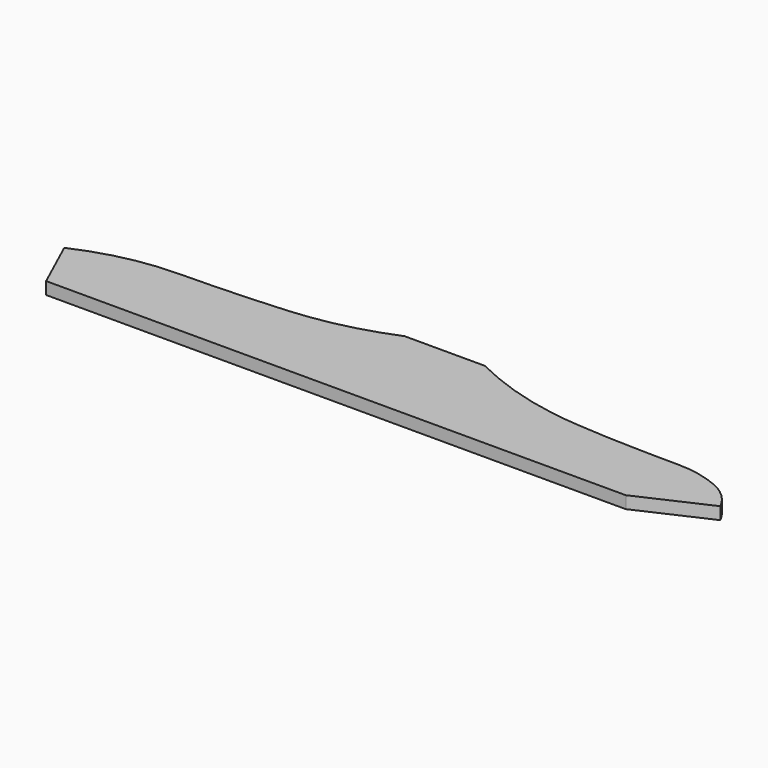
from build123d import *

# Parameters (mm, degrees)
F1_DEPTH = 15.875


with BuildPart() as f1:
    # F0 (on Top) → F1 (new body)
    with BuildSketch(Plane.XY):
        with BuildLine():
            Line((-405.7229646722, 68.1833980268), (-374.65, 0))
            Line((-374.65, 0), (374.65, 0))
            Line((374.65, 0), (464.2890758153, 40.8508803707))
            ThreePointArc((464.2890758153, 40.8508803707), (449.8955253775, 60.2323726334), (429.7637939453, 73.5564082861))
            ThreePointArc((429.7637939453, 73.5564082861), (402.1894850495, 82.3465161995), (373.4039068222, 85.3463485836))
            ThreePointArc((373.4039068222, 85.3463485837), (326.0872814579, 85.8945342918), (278.7914574146, 87.4007120728))
            add(Edge.make_bspline(
                [(202.7294188738, 94.2631438375), (213.246380745, 92.4749947437), (228.4808446175, 90.7466252174), (253.242470606, 88.7234669698), (271.076796222, 87.7246110844), (278.7914574146, 87.4007120728)],
                knots=[0, 0, 0, 0, 0.3410495495, 0.6671789133, 1, 1, 1, 1], degree=3))
            ThreePointArc((202.7294188738, 94.2631438375), (143.4379350037, 108.7622570813), (86.986720562, 131.9778710604))
            Line((86.986720562, 131.9778710604), (-16.7578142136, 131.9778710604))
            ThreePointArc((-16.7578142136, 131.9778710604), (-78.6416708287, 111.865947388), (-142.9421407222, 101.8884349303))
            ThreePointArc((-142.9421407222, 101.8884349303), (-211.4284268901, 97.9178060181), (-280.0062894821, 96.1250290275))
            ThreePointArc((-280.0062894821, 96.1250290275), (-344.3260692988, 88.7296227106), (-405.7229646722, 68.1833980268))
        make_face()
    extrude(amount=F1_DEPTH)


solid = f1.part
